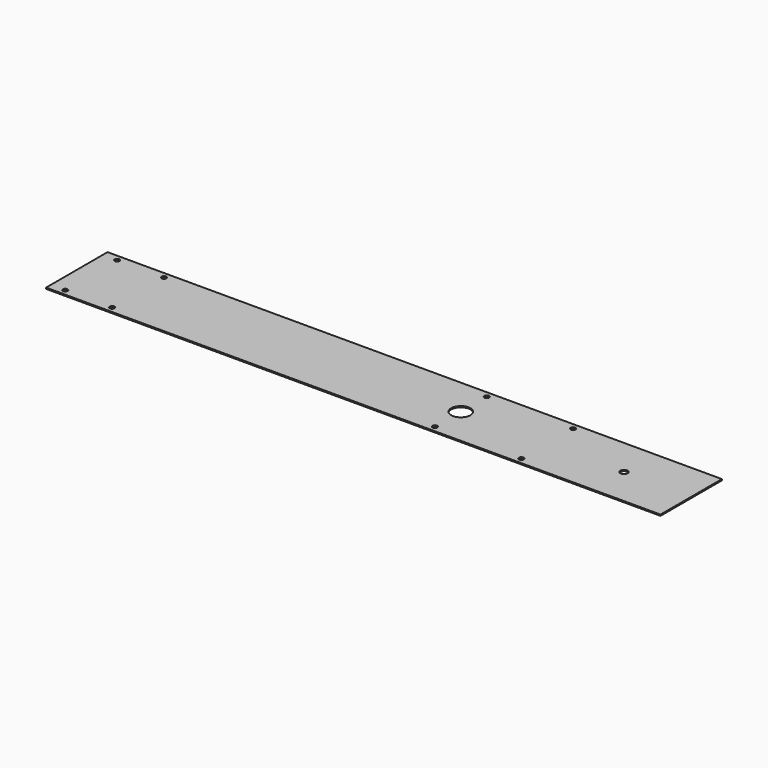
from build123d import *

# Parameters (mm, degrees)
F0_W     = 406.4
F0_H     = 50.8
F0_R     = 1.5875
F0_R_2   = 6.35
F0_R_3   = 2.38125
F1_DEPTH = 0.79375


with BuildPart() as f1:
    # F0 (on Top) → F1 (new body)
    with BuildSketch(Plane.XY):
        with Locations((203.2, 25.4)):
            Rectangle(F0_W, F0_H)
        with Locations((9.525, 3.96875)):
            Circle(F0_R, mode=Mode.SUBTRACT)
        with Locations((40.48125, 3.96875)):
            Circle(F0_R, mode=Mode.SUBTRACT)
        with Locations((254, 3.96875)):
            Circle(F0_R, mode=Mode.SUBTRACT)
        with Locations((311.15, 3.96875)):
            Circle(F0_R, mode=Mode.SUBTRACT)
        with Locations((254, 25.4)):
            Circle(F0_R_2, mode=Mode.SUBTRACT)
        with Locations((361.95, 25.4)):
            Circle(F0_R_3, mode=Mode.SUBTRACT)
        with Locations((9.525, 46.83125)):
            Circle(F0_R, mode=Mode.SUBTRACT)
        with Locations((40.48125, 46.83125)):
            Circle(F0_R, mode=Mode.SUBTRACT)
        with Locations((254, 46.83125)):
            Circle(F0_R, mode=Mode.SUBTRACT)
        with Locations((311.15, 46.83125)):
            Circle(F0_R, mode=Mode.SUBTRACT)
    extrude(amount=F1_DEPTH)


solid = f1.part
